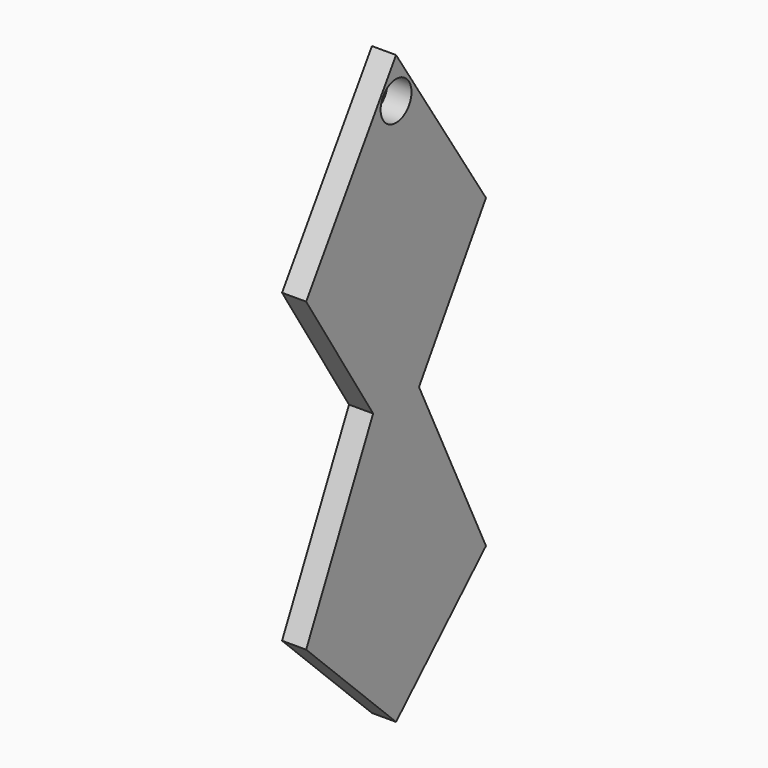
from build123d import *

# Parameters (mm, degrees)
F0_R     = 2.033541
F1_DEPTH = 2.54


with BuildPart() as f1:
    # F0 (on Right) → F1 (new body)
    with BuildSketch(Plane.YZ):
        Polygon((11.83471, 6.069755), (0, 24.1271), (-11.83471, 6.069755), (-3.018506, -7.88928), (-11.83471, -26.197118), (0, -37.708839), (11.83471, -26.197118), (3.018506, -7.88928), align=None)
        with Locations((0, 19.871799)):
            Circle(F0_R, mode=Mode.SUBTRACT)
    extrude(amount=F1_DEPTH)


solid = f1.part
